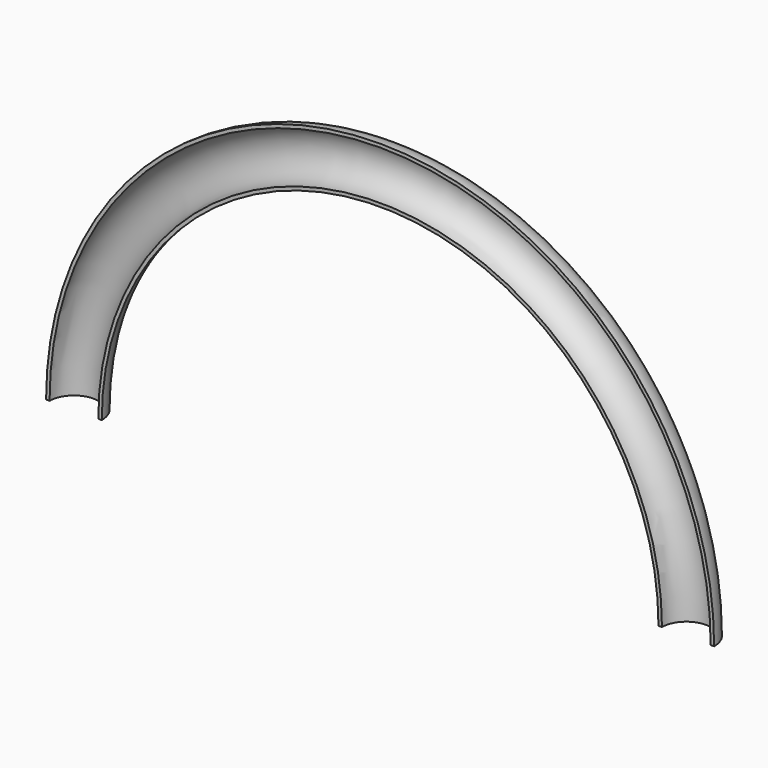
from build123d import *

# Parameters (mm, degrees)
F1_R = 12.7


with BuildPart() as f2:
    # F2: sweep along a path in F0
    with BuildLine(Plane.XZ) as f2_path:
        ThreePointArc((139.7, 0), (0, 139.7), (-139.7, 0))
    # F1 (on Top) → F2 (sweep)
    with BuildSketch(Plane.XY):
        with Locations((-139.7, 0)):
            Circle(F1_R)
    sweep(path=f2_path.line)

    # F4: sweep along a path in F0
    with BuildLine(Plane.XZ) as f4_path:
        ThreePointArc((139.7, 0), (0, 139.7), (-139.7, 0))
    # F3 (on face) → F4 (sweep, cut)
    with BuildSketch(Plane(origin=(0, 0, 0), x_dir=(1, 0, 0), z_dir=(0, 0, -1))):
        with BuildLine():
            ThreePointArc((-152.4, 0), (-139.7, 12.3904935703), (-127, 0))
            ThreePointArc((-127, 0), (-139.7, 12.7), (-152.4, 0))
        make_face()
        with BuildLine():
            Line((-152.4, 0), (-127, 0))
            ThreePointArc((-127, 0), (-139.7, 12.3904935703), (-152.4, 0))
        make_face()
    sweep(path=f4_path.line, mode=Mode.SUBTRACT)

    # F6: sweep along a path in F0
    with BuildLine(Plane.XZ) as f6_path:
        ThreePointArc((139.7, 0), (0, 139.7), (-139.7, 0))
    # F5 (on face) → F6 (sweep, cut)
    with BuildSketch(Plane(origin=(0, 0, 0), x_dir=(1, 0, 0), z_dir=(0, 0, -1))):
        with BuildLine():
            ThreePointArc((-128.5875, 0), (-139.7, 11.1125), (-150.8125, 0))
            Line((-150.8125, 0), (-128.5875, 0))
        make_face()
        with BuildLine():
            Line((-128.5875, 0), (-150.8125, 0))
            ThreePointArc((-150.8125, 0), (-139.7, -11.1125), (-128.5875, 0))
        make_face()
    sweep(path=f6_path.line, mode=Mode.SUBTRACT)


solid = f2.part
